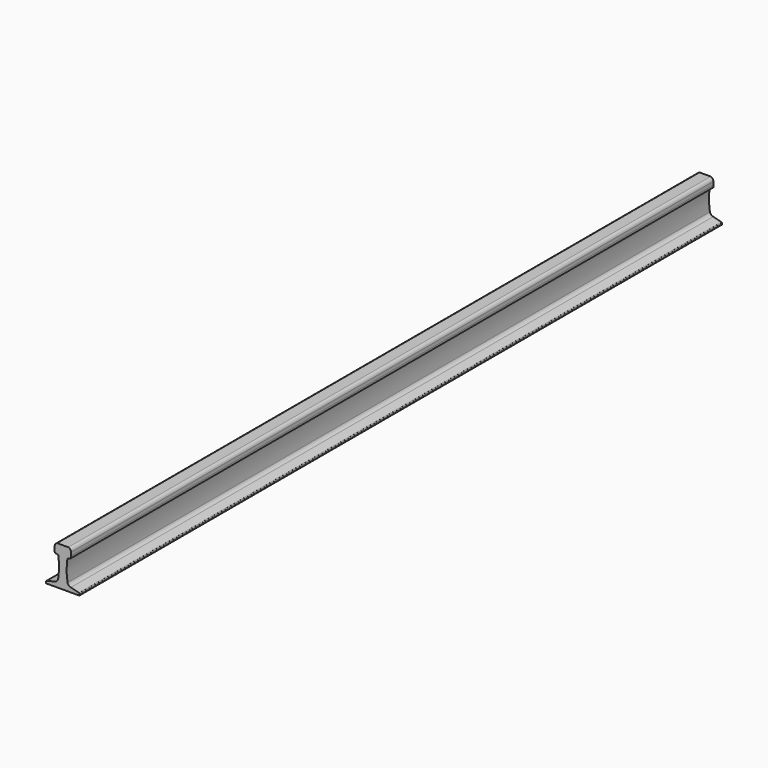
from build123d import *

# Parameters (mm, degrees)
F1_DEPTH = 3500


with BuildPart() as f1:
    # F0 (on Front) → F1 (new body)
    with BuildSketch(Plane.XZ):
        with BuildLine():
            Line((-71, 0), (0, 0))
            Line((0, 0), (71, 0))
            ThreePointArc((71, 0), (72.4142135624, 0.5857864376), (73, 2))
            Line((73, 2), (73, 7.4076707781))
            ThreePointArc((73, 7.4076707781), (72.3646163141, 9.2539074062), (70.7276068752, 10.3180982785))
            Line((70.7276068752, 10.3180982785), (34.7080603465, 19.3229849121))
            ThreePointArc((34.7080603465, 19.3229849121), (25.9016301936, 24.1147961248), (20.5270578969, 32.5781665742))
            add(Edge.make_bspline(
                [(20.5270578969, 32.5781665742), (19.1234273691, 44.047632119), (16.204172, 65.0719813904), (16.4163288517, 88.0919940772), (17.6881490255, 109.03908444), (19.5297670113, 122.9158896084), (19.9703647657, 125.2703977423), (20.0495659832, 126.0123914966)],
                knots=[0, 0, 0, 0, 0.2805439173, 0.5147626715, 0.7415495831, 0.919417208, 1, 1, 1, 1], degree=3))
            Line((20.0495659832, 126.0123914966), (27.2119990374, 127.8029997604))
            add(Edge.make_bspline(
                [(36.4430121564, 141.1397568714), (36.6506904611, 137.5374455317), (37.0598038422, 130.4411155906), (30.4610340463, 128.6733795922), (27.2119990374, 127.8029997604)],
                knots=[0, 0, 0, 0, 0.5076301933, 1, 1, 1, 1], degree=3))
            Line((36.4430121564, 141.1397568714), (35.7581047381, 154.8379052369))
            ThreePointArc((35.7581047381, 154.8379052369), (32.2818284687, 164.2532527584), (24.0533315347, 170))
            Line((24.0533315347, 170), (0, 170))
            Line((0, 170), (-19, 170))
            Line((-19, 170), (-24.0533315347, 170))
            ThreePointArc((-24.0533315347, 170), (-32.2818284687, 164.2532527584), (-35.7581047381, 154.8379052369))
            Line((-35.7581047381, 154.8379052369), (-36.4430121564, 141.1397568714))
            Line((-36.4430121564, 141.1397568714), (-36.5601873215, 138.7962535697))
            add(Edge.make_bspline(
                [(-36.5601873215, 138.7962535697), (-36.655353203, 136.0309623446), (-36.3289879031, 130.2453382437), (-30.4610340463, 128.6733795922), (-27.2119990374, 127.8029997604)],
                knots=[0.110750331, 0.110750331, 0.110750331, 0.110750331, 0.5076301933, 1, 1, 1, 1], degree=3))
            Line((-27.2119990374, 127.8029997604), (-20.0495659832, 126.0123914966))
            add(Edge.make_bspline(
                [(-20.5270578969, 32.5781665742), (-19.1234273691, 44.047632119), (-16.204172, 65.0719813904), (-16.4163288517, 88.0919940772), (-17.6881490255, 109.03908444), (-19.5297670113, 122.9158896084), (-19.9703647657, 125.2703977423), (-20.0495659832, 126.0123914966)],
                knots=[0, 0, 0, 0, 0.2805439173, 0.5147626715, 0.7415495831, 0.919417208, 1, 1, 1, 1], degree=3))
            ThreePointArc((-20.5270578969, 32.5781665742), (-25.9016301936, 24.1147961248), (-34.7080603465, 19.3229849121))
            Line((-34.7080603465, 19.3229849121), (-70.7276068752, 10.3180982785))
            ThreePointArc((-70.7276068752, 10.3180982785), (-72.3646163141, 9.2539074062), (-73, 7.4076707781))
            Line((-73, 7.4076707781), (-73, 2))
            ThreePointArc((-73, 2), (-72.4142135624, 0.5857864376), (-71, 0))
        make_face()
        with BuildLine():
            add(Edge.make_bspline(
                [(-36.4430121564, 141.1397568714), (-36.4883215988, 140.3538359815), (-36.5336310411, 139.5679150916), (-36.5601873215, 138.7962535697)],
                knots=[0, 0, 0, 0, 0.110750331, 0.110750331, 0.110750331, 0.110750331], degree=3))
            Line((-36.5601873215, 138.7962535697), (-36.4430121564, 141.1397568714))
        make_face()
    extrude(amount=F1_DEPTH)


solid = f1.part
